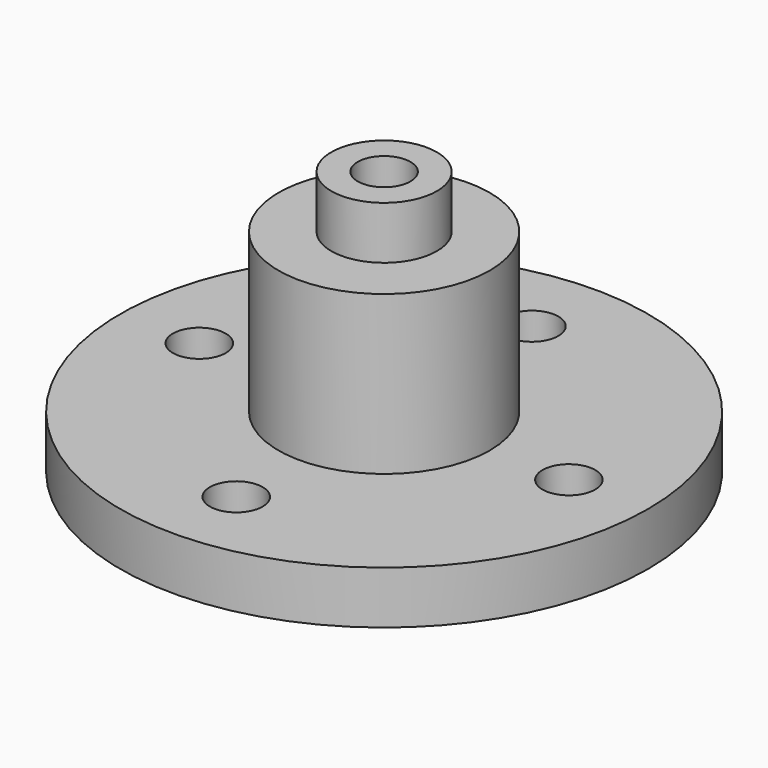
from build123d import *

# Parameters (mm, degrees)
F0_R      = 63.5
F1_DEPTH  = 6.35
F1_FACE_R = 63.5
F2_DEPTH  = 6.35
F3_R      = 6.35
F4_DEPTH  = 12.7
F3_R_2    = 25.4
F5_DEPTH  = 38.1
F6_R      = 12.7
F7_DEPTH  = 12.7
F8_R      = 6.35
F9_DEPTH  = 63.5


with BuildPart() as f1:
    # F0 (on Top) → F1 (new body)
    with BuildSketch(Plane.XY):
        Circle(F0_R)
    extrude(amount=F1_DEPTH)

    # F1_face (on face) → F2 (join)
    with BuildSketch(Plane(origin=(0, 0, 0), x_dir=(1, 0, 0), z_dir=(0, 0, -1))):
        Circle(F1_FACE_R)
    extrude(amount=F2_DEPTH)

    # F3 (on face) → F4 (cut)
    with BuildSketch(Plane.XY.offset(6.35)):
        with Locations((-44.45, 0)):
            Circle(F3_R)
        with Locations((0, 44.45)):
            Circle(F3_R)
        with Locations((44.45, 0)):
            Circle(F3_R)
        with Locations((0, -44.45)):
            Circle(F3_R)
    extrude(amount=-F4_DEPTH, mode=Mode.SUBTRACT)

    # F3 (on face) → F5 (join)
    with BuildSketch(Plane.XY.offset(6.35)):
        Circle(F3_R_2)
    extrude(amount=F5_DEPTH)

    # F6 (on face) → F7 (join)
    with BuildSketch(Plane.XY.offset(44.45)):
        Circle(F6_R)
    extrude(amount=F7_DEPTH)

    # F8 (on face) → F9 (cut)
    with BuildSketch(Plane.XY.offset(57.15)):
        Circle(F8_R)
    extrude(amount=-F9_DEPTH, mode=Mode.SUBTRACT)


solid = f1.part
